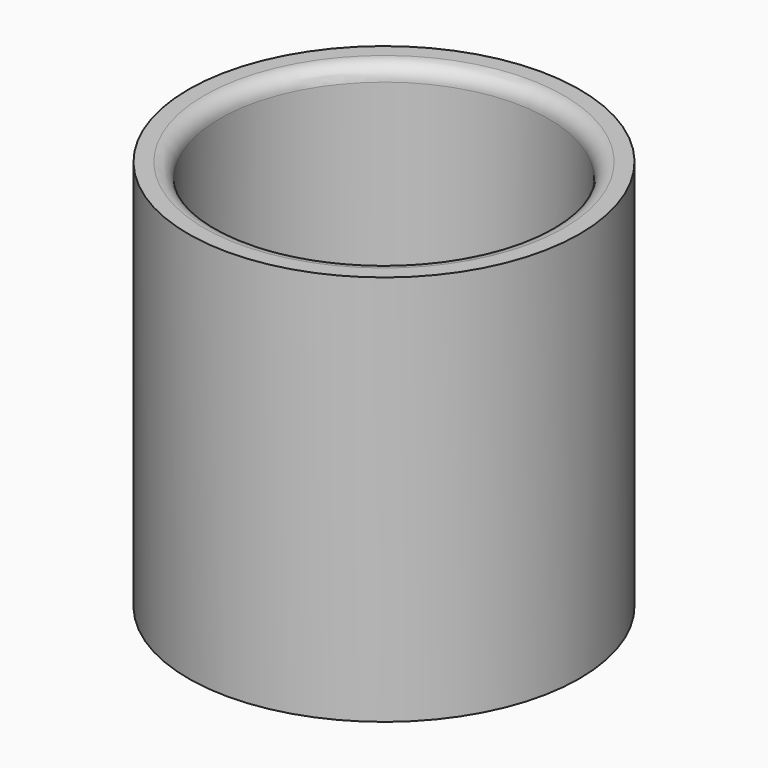
from build123d import *

# Parameters (mm, degrees)
F3_R     = 127
F0_DEPTH = 254
F1_T     = -20.32
F2_R     = 10


with BuildPart() as f0:
    # F3 (on Top) → F0 (new body)
    with BuildSketch(Plane.XY):
        Circle(F3_R)
    extrude(amount=F0_DEPTH)

    # F1
    f1_openings = [f0.faces().sort_by_distance(p)[0] for p in [
        (0, 0, 254),
    ]]
    offset(amount=F1_T, openings=f1_openings)

    # F2
    f2_edges = [f0.edges().sort_by_distance(p)[0] for p in [
        (-106.68, 0, 254),
    ]]
    fillet(f2_edges, radius=F2_R)


solid = f0.part
